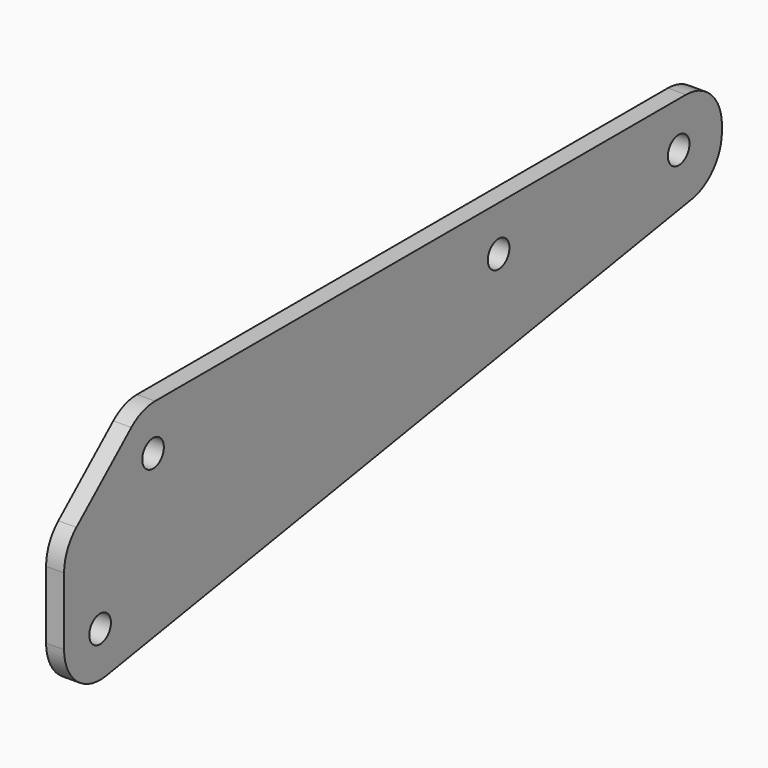
from build123d import *

# Parameters (mm, degrees)
F1_DEPTH = 2
F3_D     = 3
F5_D     = 3


with BuildPart() as f1:
    # F0 (on Right) → F1 (new body)
    with BuildSketch(Plane.YZ):
        with BuildLine():
            Line((42.4517345428, 32.4551947415), (-31.2479986618, 32.4551947415))
            ThreePointArc((-31.2479986618, 32.4551947415), (-33.0066323151, 32.1357083536), (-34.540522163, 31.2180778109))
            Line((-34.540522163, 31.2180778109), (-42.1629837432, 24.5484222763))
            ThreePointArc((-42.1629837432, 24.5484222763), (-43.4236249385, 22.8516203396), (-43.870460242, 20.7855392069))
            Line((-43.870460242, 20.7855392069), (-43.870460242, 13.2886583044))
            ThreePointArc((-43.870460242, 13.2886583044), (-42.1023347006, 9.4735583733), (-38.0484652484, 8.3566886947))
            Line((-38.0484652484, 8.3566886947), (43.2737295365, 21.9103887931))
            ThreePointArc((43.2737295365, 21.9103887931), (46.2668344739, 23.6104839442), (47.4517345428, 26.8423584027))
            Line((47.4517345428, 26.8423584027), (47.4517345428, 27.4551947415))
            ThreePointArc((47.4517345428, 27.4551947415), (45.9872684488, 30.9907286474), (42.4517345428, 32.4551947415))
        make_face()
    extrude(amount=F1_DEPTH)

    # F3 (through all)
    with Locations(Plane(origin=(0, 0, 0), x_dir=(0, 1, 0), z_dir=(-1, 0, 0))):
        with Locations((41.4517345428, -27.4551947415), (16.4517345428, -27.4551947415)):
            Hole(F3_D / 2)

    # F5 (through all)
    with Locations(Plane(origin=(0, 0, 0), x_dir=(0, 1, 0), z_dir=(-1, 0, 0))):
        with Locations((-31.5209182738, -27.4626488093), (-38.870460242, -13.2886583044)):
            Hole(F5_D / 2)


solid = f1.part
